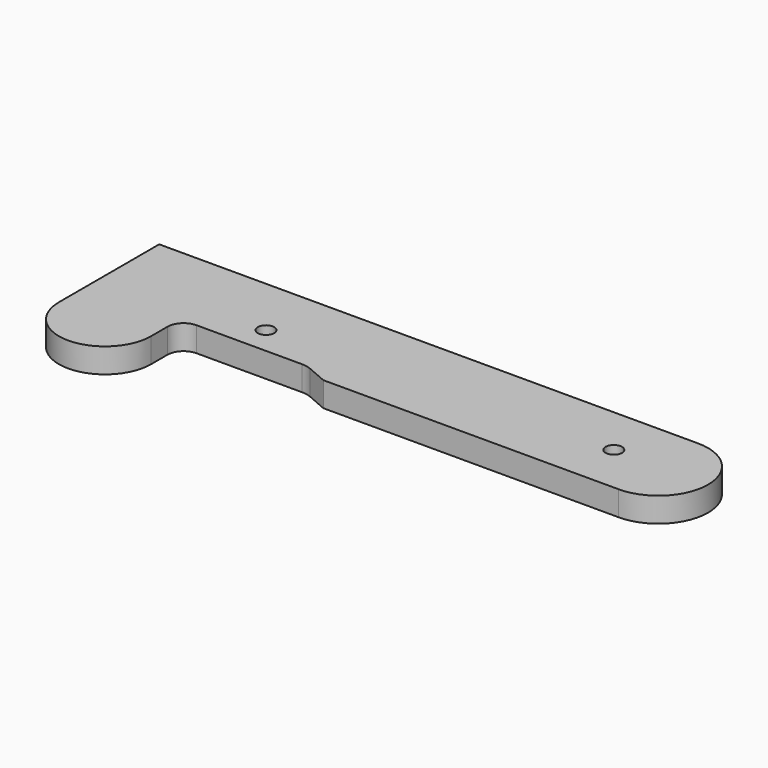
from build123d import *

# Parameters (mm, degrees)
F0_R     = 6.35
F1_DEPTH = 19.05


with BuildPart() as f1:
    # F0 (on Top) → F1 (new body)
    with BuildSketch(Plane.XY):
        with BuildLine():
            Line((67.818, -29.464), (295.8338, -29.464))
            ThreePointArc((295.8338, -29.464), (334.1878, 8.89), (295.8338, 47.244))
            Line((295.8338, 47.244), (-120.269, 47.244))
            Line((-120.269, 47.244), (-120.269, -49.53))
            ThreePointArc((-120.269, -49.53), (-84.709, -85.09), (-49.149, -49.53))
            Line((-49.149, -49.53), (-49.149, -33.655))
            ThreePointArc((-49.149, -33.655), (-45.503651, -24.854349), (-36.703, -21.209))
            Line((-36.703, -21.209), (44.870627, -21.209))
            ThreePointArc((44.870627, -21.209), (48.686826, -21.600483), (52.344056, -22.758624))
            Line((52.344056, -22.758624), (67.818, -29.464))
        make_face()
        Circle(F0_R, mode=Mode.SUBTRACT)
        with Locations((261.4168, 8.89)):
            Circle(F0_R, mode=Mode.SUBTRACT)
    extrude(amount=F1_DEPTH)


solid = f1.part
